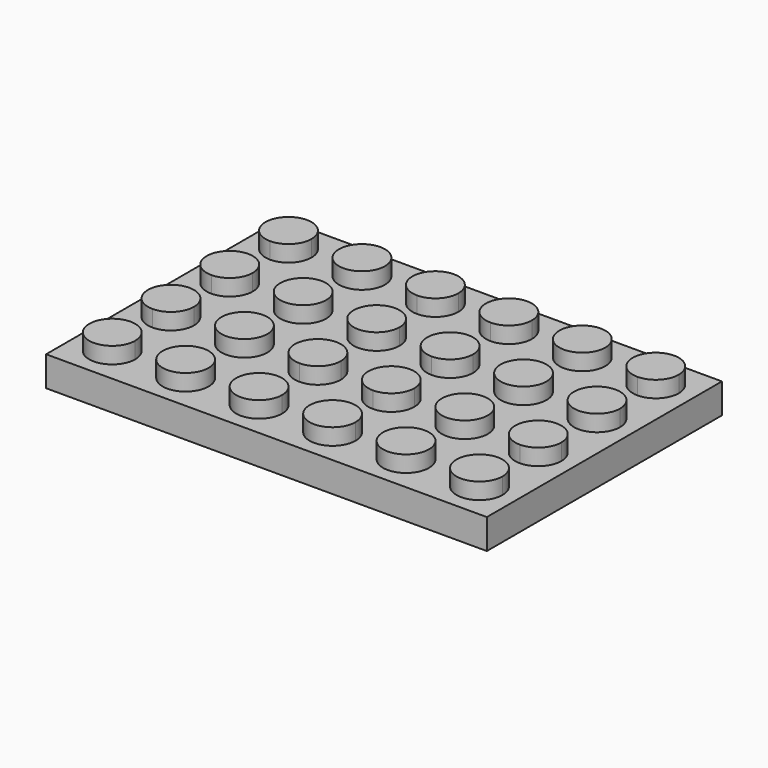
from build123d import *

# Parameters (mm, degrees)
F0_W     = 47.244
F0_H     = 31.496
F1_DEPTH = 3.20802
F2_R     = 2.4638
F3_DEPTH = 1.7526
F4_T     = -1.5748
F5_R     = 3.175
F5_R_2   = 2.4638
F6_DEPTH = 1.63322


with BuildPart() as f1:
    # F0 (on Top) → F1 (new body)
    with BuildSketch(Plane.XY):
        Rectangle(F0_W, F0_H)
    extrude(amount=F1_DEPTH)

    # F2 (on face) → F3 (join)
    with BuildSketch(Plane.XY.offset(3.20802)):
        with BuildLine():
            ThreePointArc((-17.2212, 11.811), (-21.4271696875, 13.5531696875), (-19.685, 9.3472))
            ThreePointArc((-19.685, 9.3472), (-17.9428303125, 10.0688303125), (-17.2212, 11.811))
        make_face()
        with Locations((-11.811, 11.811)):
            Circle(F2_R)
        with BuildLine():
            Line((-3.937, 11.811), (-3.937, 9.3472))
            ThreePointArc((-3.937, 9.3472), (-2.1948303125, 10.0688303125), (-1.4732, 11.811))
            ThreePointArc((-1.4732, 11.811), (-3.937, 14.2748), (-6.4008, 11.811))
            Line((-6.4008, 11.811), (-3.937, 11.811))
        make_face()
        with BuildLine():
            ThreePointArc((-6.4008, 11.811), (-5.6791696875, 10.0688303125), (-3.937, 9.3472))
            Line((-3.937, 9.3472), (-3.937, 11.811))
            Line((-3.937, 11.811), (-6.4008, 11.811))
        make_face()
        with BuildLine():
            ThreePointArc((6.4008, 11.811), (2.1948303125, 13.5531696875), (3.937, 9.3472))
            Line((3.937, 9.3472), (3.937, 11.811))
            Line((3.937, 11.811), (6.4008, 11.811))
        make_face()
        with BuildLine():
            Line((3.937, 11.811), (3.937, 9.3472))
            ThreePointArc((3.937, 9.3472), (5.6791696875, 10.0688303125), (6.4008, 11.811))
            Line((6.4008, 11.811), (3.937, 11.811))
        make_face()
        with BuildLine():
            Line((3.937, 3.937), (3.937, 1.4732))
            ThreePointArc((3.937, 1.4732), (5.6791696875, 2.1948303125), (6.4008, 3.937))
            ThreePointArc((6.4008, 3.937), (5.6791696875, 5.6791696875), (3.937, 6.4008))
            Line((3.937, 6.4008), (3.937, 3.937))
        make_face()
        with BuildLine():
            ThreePointArc((3.937, 6.4008), (1.4732, 3.937), (3.937, 1.4732))
            Line((3.937, 1.4732), (3.937, 3.937))
            Line((3.937, 3.937), (3.937, 6.4008))
        make_face()
        with BuildLine():
            Line((-3.937, 3.937), (-6.4008, 3.937))
            ThreePointArc((-6.4008, 3.937), (-3.937, 1.4732), (-1.4732, 3.937))
            ThreePointArc((-1.4732, 3.937), (-2.1948303125, 5.6791696875), (-3.937, 6.4008))
            Line((-3.937, 6.4008), (-3.937, 3.937))
        make_face()
        with BuildLine():
            ThreePointArc((-3.937, 6.4008), (-5.6791696875, 5.6791696875), (-6.4008, 3.937))
            Line((-6.4008, 3.937), (-3.937, 3.937))
            Line((-3.937, 3.937), (-3.937, 6.4008))
        make_face()
        with BuildLine():
            ThreePointArc((-9.3472, 3.937), (-11.811, 6.4008), (-14.2748, 3.937))
            Line((-14.2748, 3.937), (-11.811, 3.937))
            Line((-11.811, 3.937), (-9.3472, 3.937))
        make_face()
        with BuildLine():
            Line((-11.811, 3.937), (-14.2748, 3.937))
            ThreePointArc((-14.2748, 3.937), (-11.811, 1.4732), (-9.3472, 3.937))
            Line((-9.3472, 3.937), (-11.811, 3.937))
        make_face()
        with BuildLine():
            Line((-19.685, 6.4008), (-19.685, 3.937))
            Line((-19.685, 3.937), (-17.2212, 3.937))
            ThreePointArc((-17.2212, 3.937), (-17.9428303125, 5.6791696875), (-19.685, 6.4008))
        make_face()
        with BuildLine():
            Line((-19.685, 3.937), (-19.685, 1.4732))
            ThreePointArc((-19.685, 1.4732), (-17.9428303125, 2.1948303125), (-17.2212, 3.937))
            Line((-17.2212, 3.937), (-19.685, 3.937))
        make_face()
        with BuildLine():
            ThreePointArc((-19.685, 6.4008), (-22.1488, 3.937), (-19.685, 1.4732))
            Line((-19.685, 1.4732), (-19.685, 3.937))
            Line((-19.685, 3.937), (-19.685, 6.4008))
        make_face()
        with BuildLine():
            ThreePointArc((-17.2212, -3.937), (-17.9428303125, -2.1948303125), (-19.685, -1.4732))
            Line((-19.685, -1.4732), (-19.685, -3.937))
            Line((-19.685, -3.937), (-17.2212, -3.937))
        make_face()
        with BuildLine():
            Line((-17.2212, -3.937), (-19.685, -3.937))
            Line((-19.685, -3.937), (-19.685, -6.4008))
            ThreePointArc((-19.685, -6.4008), (-17.9428303125, -5.6791696875), (-17.2212, -3.937))
        make_face()
        with BuildLine():
            Line((-19.685, -3.937), (-19.685, -1.4732))
            ThreePointArc((-19.685, -1.4732), (-22.1488, -3.937), (-19.685, -6.4008))
            Line((-19.685, -6.4008), (-19.685, -3.937))
        make_face()
        with BuildLine():
            ThreePointArc((-9.3472, -3.937), (-11.811, -1.4732), (-14.2748, -3.937))
            Line((-14.2748, -3.937), (-11.811, -3.937))
            Line((-11.811, -3.937), (-9.3472, -3.937))
        make_face()
        with BuildLine():
            Line((-11.811, -3.937), (-14.2748, -3.937))
            ThreePointArc((-14.2748, -3.937), (-11.811, -6.4008), (-9.3472, -3.937))
            Line((-9.3472, -3.937), (-11.811, -3.937))
        make_face()
        with BuildLine():
            Line((-3.937, -3.937), (-6.4008, -3.937))
            ThreePointArc((-6.4008, -3.937), (-5.6791696875, -5.6791696875), (-3.937, -6.4008))
            Line((-3.937, -6.4008), (-3.937, -3.937))
        make_face()
        with BuildLine():
            ThreePointArc((-1.4732, -3.937), (-3.937, -1.4732), (-6.4008, -3.937))
            Line((-6.4008, -3.937), (-3.937, -3.937))
            Line((-3.937, -3.937), (-3.937, -6.4008))
            ThreePointArc((-3.937, -6.4008), (-2.1948303125, -5.6791696875), (-1.4732, -3.937))
        make_face()
        with BuildLine():
            ThreePointArc((-1.4732, -11.811), (-2.1948303125, -10.0688303125), (-3.937, -9.3472))
            Line((-3.937, -9.3472), (-3.937, -11.811))
            Line((-3.937, -11.811), (-6.4008, -11.811))
            ThreePointArc((-6.4008, -11.811), (-3.937, -14.2748), (-1.4732, -11.811))
        make_face()
        with BuildLine():
            Line((-3.937, -11.811), (-3.937, -9.3472))
            ThreePointArc((-3.937, -9.3472), (-5.6791696875, -10.0688303125), (-6.4008, -11.811))
            Line((-6.4008, -11.811), (-3.937, -11.811))
        make_face()
        with Locations((-11.811, -11.811)):
            Circle(F2_R)
        with BuildLine():
            ThreePointArc((-17.2212, -11.811), (-17.9428303125, -10.0688303125), (-19.685, -9.3472))
            ThreePointArc((-19.685, -9.3472), (-21.4271696875, -13.5531696875), (-17.2212, -11.811))
        make_face()
        with BuildLine():
            Line((3.937, -11.811), (3.937, -9.3472))
            ThreePointArc((3.937, -9.3472), (2.1948303125, -13.5531696875), (6.4008, -11.811))
            Line((6.4008, -11.811), (3.937, -11.811))
        make_face()
        with BuildLine():
            ThreePointArc((6.4008, -11.811), (5.6791696875, -10.0688303125), (3.937, -9.3472))
            Line((3.937, -9.3472), (3.937, -11.811))
            Line((3.937, -11.811), (6.4008, -11.811))
        make_face()
        with BuildLine():
            ThreePointArc((6.4008, -3.937), (5.6791696875, -2.1948303125), (3.937, -1.4732))
            Line((3.937, -1.4732), (3.937, -3.937))
            Line((3.937, -3.937), (3.937, -6.4008))
            ThreePointArc((3.937, -6.4008), (5.6791696875, -5.6791696875), (6.4008, -3.937))
        make_face()
        with BuildLine():
            Line((3.937, -3.937), (3.937, -1.4732))
            ThreePointArc((3.937, -1.4732), (1.4732, -3.937), (3.937, -6.4008))
            Line((3.937, -6.4008), (3.937, -3.937))
        make_face()
        with Locations((11.811, -3.937)):
            Circle(F2_R)
        with BuildLine():
            Line((19.685, -3.937), (19.685, -6.4008))
            ThreePointArc((19.685, -6.4008), (21.4271696875, -5.6791696875), (22.1488, -3.937))
            ThreePointArc((22.1488, -3.937), (19.685, -1.4732), (17.2212, -3.937))
            Line((17.2212, -3.937), (19.685, -3.937))
        make_face()
        with BuildLine():
            ThreePointArc((17.2212, -3.937), (17.9428303125, -5.6791696875), (19.685, -6.4008))
            Line((19.685, -6.4008), (19.685, -3.937))
            Line((19.685, -3.937), (17.2212, -3.937))
        make_face()
        with BuildLine():
            Line((19.685, -11.811), (17.2212, -11.811))
            ThreePointArc((17.2212, -11.811), (19.685, -14.2748), (22.1488, -11.811))
            ThreePointArc((22.1488, -11.811), (21.4271696875, -10.0688303125), (19.685, -9.3472))
            Line((19.685, -9.3472), (19.685, -11.811))
        make_face()
        with BuildLine():
            ThreePointArc((19.685, -9.3472), (17.9428303125, -10.0688303125), (17.2212, -11.811))
            Line((17.2212, -11.811), (19.685, -11.811))
            Line((19.685, -11.811), (19.685, -9.3472))
        make_face()
        with BuildLine():
            ThreePointArc((14.2748, -11.811), (11.811, -9.3472), (9.3472, -11.811))
            Line((9.3472, -11.811), (11.811, -11.811))
            Line((11.811, -11.811), (14.2748, -11.811))
        make_face()
        with BuildLine():
            Line((11.811, -11.811), (9.3472, -11.811))
            ThreePointArc((9.3472, -11.811), (11.811, -14.2748), (14.2748, -11.811))
            Line((14.2748, -11.811), (11.811, -11.811))
        make_face()
        with BuildLine():
            ThreePointArc((22.1488, 3.937), (21.4271696875, 5.6791696875), (19.685, 6.4008))
            Line((19.685, 6.4008), (19.685, 3.937))
            Line((19.685, 3.937), (17.2212, 3.937))
            ThreePointArc((17.2212, 3.937), (19.685, 1.4732), (22.1488, 3.937))
        make_face()
        with BuildLine():
            Line((19.685, 3.937), (19.685, 6.4008))
            ThreePointArc((19.685, 6.4008), (17.9428303125, 5.6791696875), (17.2212, 3.937))
            Line((17.2212, 3.937), (19.685, 3.937))
        make_face()
        with Locations((11.811, 3.937)):
            Circle(F2_R)
        with BuildLine():
            Line((11.811, 11.811), (9.3472, 11.811))
            ThreePointArc((9.3472, 11.811), (11.811, 9.3472), (14.2748, 11.811))
            Line((14.2748, 11.811), (11.811, 11.811))
        make_face()
        with BuildLine():
            ThreePointArc((14.2748, 11.811), (11.811, 14.2748), (9.3472, 11.811))
            Line((9.3472, 11.811), (11.811, 11.811))
            Line((11.811, 11.811), (14.2748, 11.811))
        make_face()
        with BuildLine():
            ThreePointArc((22.1488, 11.811), (19.685, 14.2748), (17.2212, 11.811))
            Line((17.2212, 11.811), (19.685, 11.811))
            Line((19.685, 11.811), (19.685, 9.3472))
            ThreePointArc((19.685, 9.3472), (21.4271696875, 10.0688303125), (22.1488, 11.811))
        make_face()
        with BuildLine():
            Line((19.685, 11.811), (17.2212, 11.811))
            ThreePointArc((17.2212, 11.811), (17.9428303125, 10.0688303125), (19.685, 9.3472))
            Line((19.685, 9.3472), (19.685, 11.811))
        make_face()
    extrude(amount=F3_DEPTH)

    # F4
    f4_openings = [f1.faces().sort_by_distance(p)[0] for p in [
        (0, 0, 0),
    ]]
    offset(amount=F4_T, openings=f4_openings, kind=Kind.INTERSECTION)

    # F5 (on face) → F6 (join)
    with BuildSketch(Plane(origin=(0, 0, 1.63322), x_dir=(1, 0, 0), z_dir=(0, 0, -1))):
        with Locations((-15.748, 7.874)):
            Circle(F5_R)
        with Locations((-15.748, 7.874)):
            Circle(F5_R_2, mode=Mode.SUBTRACT)
        with Locations((-7.874, 7.874)):
            Circle(F5_R)
        with Locations((-7.874, 7.874)):
            Circle(F5_R_2, mode=Mode.SUBTRACT)
        with Locations((0, 7.874)):
            Circle(F5_R)
        with Locations((0, 7.874)):
            Circle(F5_R_2, mode=Mode.SUBTRACT)
        with Locations((7.874, 7.874)):
            Circle(F5_R)
        with Locations((7.874, 7.874)):
            Circle(F5_R_2, mode=Mode.SUBTRACT)
        with Locations((15.748, 7.874)):
            Circle(F5_R)
        with Locations((15.748, 7.874)):
            Circle(F5_R_2, mode=Mode.SUBTRACT)
        with Locations((15.748, 0)):
            Circle(F5_R)
        with Locations((15.748, 0)):
            Circle(F5_R_2, mode=Mode.SUBTRACT)
        with Locations((7.874, 0)):
            Circle(F5_R)
        with Locations((7.874, 0)):
            Circle(F5_R_2, mode=Mode.SUBTRACT)
        Circle(F5_R)
        Circle(F5_R_2, mode=Mode.SUBTRACT)
        with Locations((-7.874, 0)):
            Circle(F5_R)
        with Locations((-7.874, 0)):
            Circle(F5_R_2, mode=Mode.SUBTRACT)
        with Locations((-15.748, 0)):
            Circle(F5_R)
        with Locations((-15.748, 0)):
            Circle(F5_R_2, mode=Mode.SUBTRACT)
        with Locations((-15.748, -7.874)):
            Circle(F5_R)
        with Locations((-15.748, -7.874)):
            Circle(F5_R_2, mode=Mode.SUBTRACT)
        with Locations((-7.874, -7.874)):
            Circle(F5_R)
        with Locations((-7.874, -7.874)):
            Circle(F5_R_2, mode=Mode.SUBTRACT)
        with Locations((0, -7.874)):
            Circle(F5_R)
        with Locations((0, -7.874)):
            Circle(F5_R_2, mode=Mode.SUBTRACT)
        with Locations((7.874, -7.874)):
            Circle(F5_R)
        with Locations((7.874, -7.874)):
            Circle(F5_R_2, mode=Mode.SUBTRACT)
        with Locations((15.748, -7.874)):
            Circle(F5_R)
        with Locations((15.748, -7.874)):
            Circle(F5_R_2, mode=Mode.SUBTRACT)
    extrude(amount=F6_DEPTH)


solid = f1.part
